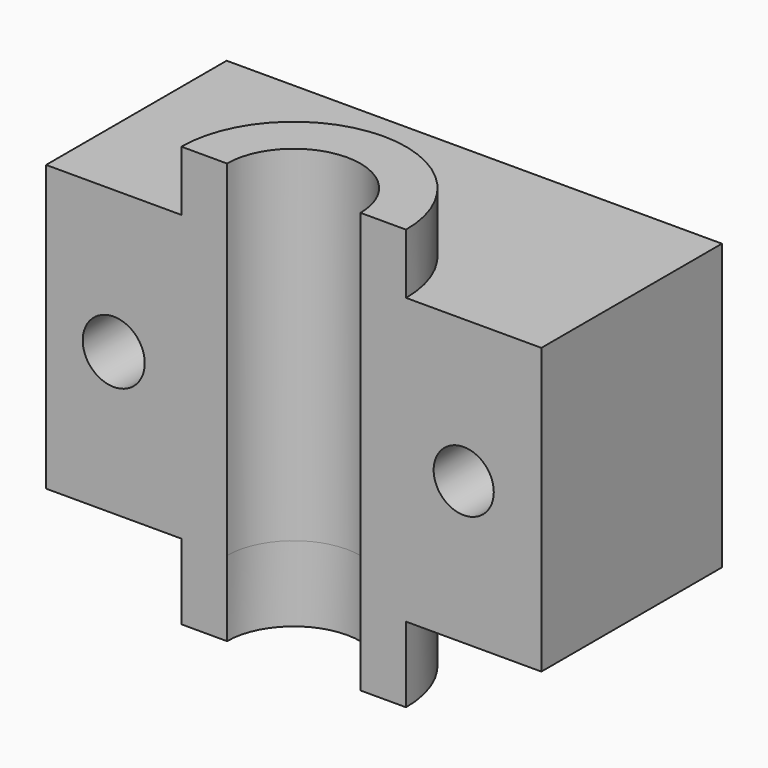
from build123d import *

# Parameters (mm, degrees)
F0_W          = 128.197401762
F0_H          = 73.774009943
F1_DEPTH      = 58.42
F2_DEPTH      = 19.5215027779
F2_DEPTH_BACK = 89.3221944571
F7_R          = 17.2672830395
F3_DEPTH      = 89.3231944571
F3_DEPTH_BACK = 25.4
F8_R          = 7.783506766
F4_DEPTH      = 58.421
F9_R          = 8.0252632598
F10_DEPTH     = 58.421


with BuildPart() as f1:
    # F0 (on Front) → F1 (new body)
    with BuildSketch(Plane.XZ):
        Rectangle(F0_W, F0_H)
    extrude(amount=F1_DEPTH)

    # F6 (on face) → F2 (join, two sides)
    with BuildSketch(Plane(origin=(0, 0, -36.8870049715), x_dir=(1, 0, 0), z_dir=(0, 0, -1))) as f2_sk:
        with BuildLine():
            ThreePointArc((-29.0746443466, 58.42), (0, 29.3453556534), (29.0746443466, 58.42))
            Line((29.0746443466, 58.42), (-29.0746443466, 58.42))
        make_face()
    extrude(amount=F2_DEPTH)
    extrude(f2_sk.sketch, amount=-F2_DEPTH_BACK)

    # F7 (on face) → F3 (cut, two sides)
    with BuildSketch(Plane(origin=(0, 0, -36.8870049715), x_dir=(1, 0, 0), z_dir=(0, 0, -1))) as f3_sk:
        with Locations((0, 58.42)):
            Circle(F7_R)
    extrude(amount=-F3_DEPTH, mode=Mode.SUBTRACT)
    extrude(f3_sk.sketch, amount=F3_DEPTH_BACK, mode=Mode.SUBTRACT)

    # F8 (on face) → F4 (cut, through all)
    with BuildSketch(Plane.XZ.offset(58.42)):
        with Locations((44.0028309822, 0)):
            Circle(F8_R)
    extrude(amount=-F4_DEPTH, mode=Mode.SUBTRACT)

    # F9 (on face) → F10 (cut, through all)
    with BuildSketch(Plane.XZ.offset(58.42)):
        with Locations((-46.5866726138, 0)):
            Circle(F9_R)
    extrude(amount=-F10_DEPTH, mode=Mode.SUBTRACT)


solid = f1.part
